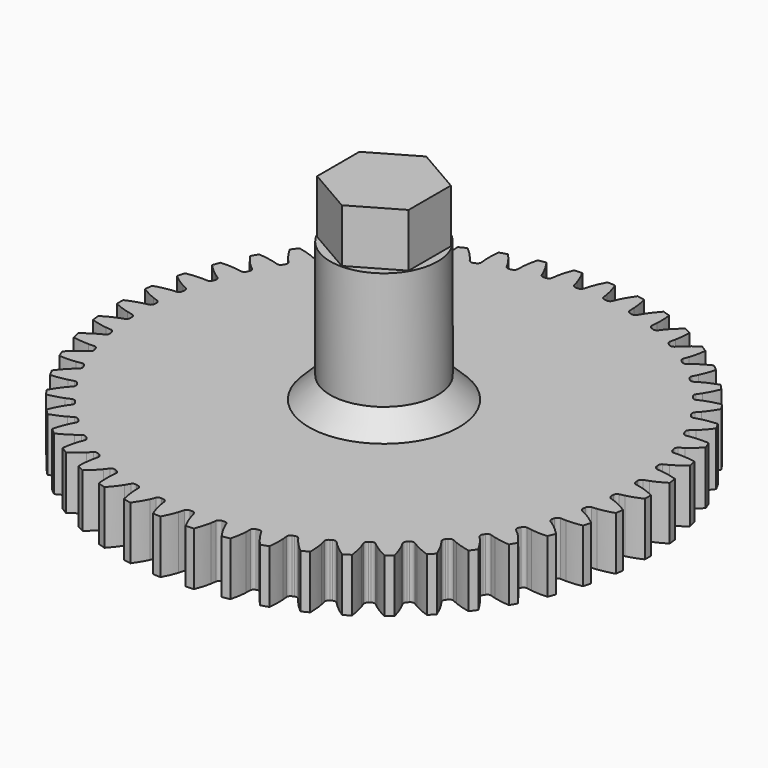
from build123d import *

# Parameters (mm, degrees)
PAD015_DEPTH    = 5
SKETCH020_R     = 5.03
PAD016_DEPTH    = 18
POCKET003_DEPTH = 5
PAD017_DEPTH    = 5


with BuildPart() as part:
    # InvoluteGear005 → Pad015 (new body)
    with BuildSketch(Plane.XY):
        with BuildLine():
            add(Edge.make_bspline(
                [(22.778576, -0.988157), (22.915604, -0.965663), (23.080812, -0.932266), (23.272819, -0.882832)],
                knots=[0, 0, 0, 0, 1, 1, 1, 1], degree=3))
            add(Edge.make_bspline(
                [(23.272819, -0.882832), (23.651159, -0.785377), (24.131276, -0.626388), (24.697565, -0.368193)],
                knots=[0, 0, 0, 0, 1, 1, 1, 1], degree=3))
            ThreePointArc((24.697565, -0.368193), (24.70031, 0), (24.697565, 0.368193))
            add(Edge.make_bspline(
                [(24.697565, 0.368193), (24.131276, 0.626388), (23.651159, 0.785377), (23.272819, 0.882832)],
                knots=[0, 0, 0, 0, 1, 1, 1, 1], degree=3))
            add(Edge.make_bspline(
                [(23.272819, 0.882832), (23.080812, 0.932266), (22.915604, 0.965663), (22.778598, 0.988152)],
                knots=[0, 0, 0, 0, 1, 1, 1, 1], degree=3))
            ThreePointArc((22.778598, 0.988152), (22.594733, 1.115883), (22.523379, 1.328087))
            ThreePointArc((22.523379, 1.328087), (22.517978, 1.416711), (22.512229, 1.505314))
            ThreePointArc((22.512229, 1.505314), (22.556418, 1.724778), (22.72281, 1.874547))
            add(Edge.make_bspline(
                [(22.72281, 1.874547), (22.855937, 1.914039), (23.015657, 1.967878), (23.199954, 2.040987)],
                knots=[0, 0, 0, 0, 1, 1, 1, 1], degree=3))
            add(Edge.make_bspline(
                [(23.199954, 2.040987), (23.563097, 2.185092), (24.019501, 2.403002), (24.548965, 2.730136)],
                knots=[0, 0, 0, 0, 1, 1, 1, 1], degree=3))
            ThreePointArc((24.548965, 2.730136), (24.50554, 3.09577), (24.456671, 3.460716))
            add(Edge.make_bspline(
                [(24.456671, 3.460716), (23.862486, 3.6459), (23.366229, 3.74346), (22.978658, 3.792729)],
                knots=[0, 0, 0, 0, 1, 1, 1, 1], degree=3))
            add(Edge.make_bspline(
                [(22.978658, 3.792729), (22.781969, 3.817708), (22.613878, 3.830135), (22.475134, 3.835276)],
                knots=[0, 0, 0, 0, 1, 1, 1, 1], degree=3))
            ThreePointArc((22.475134, 3.835276), (22.276709, 3.938955), (22.179322, 4.140542))
            ThreePointArc((22.179322, 4.140542), (22.162856, 4.227791), (22.146047, 4.314974))
            ThreePointArc((22.146047, 4.314974), (22.162382, 4.538246), (22.30869, 4.707689))
            add(Edge.make_bspline(
                [(22.30869, 4.707689), (22.435819, 4.763555), (22.587531, 4.836987), (22.761212, 4.932618)],
                knots=[0, 0, 0, 0, 1, 1, 1, 1], degree=3))
            add(Edge.make_bspline(
                [(22.761212, 4.932618), (23.10343, 5.121101), (23.528924, 5.394495), (24.013212, 5.785409)],
                knots=[0, 0, 0, 0, 1, 1, 1, 1], degree=3))
            ThreePointArc((24.013212, 5.785409), (23.924304, 6.142717), (23.83008, 6.49866))
            add(Edge.make_bspline(
                [(23.83008, 6.49866), (23.217371, 6.607913), (22.7128, 6.642507), (22.322109, 6.642811)],
                knots=[0, 0, 0, 0, 1, 1, 1, 1], degree=3))
            add(Edge.make_bspline(
                [(22.322109, 6.642811), (22.123841, 6.642942), (21.955518, 6.634203), (21.817223, 6.621915)],
                knots=[0, 0, 0, 0, 1, 1, 1, 1], degree=3))
            ThreePointArc((21.817223, 6.621915), (21.607369, 6.699907), (21.485484, 6.887699))
            ThreePointArc((21.485484, 6.887699), (21.458213, 6.972196), (21.430609, 7.056585))
            ThreePointArc((21.430609, 7.056585), (21.418832, 7.280144), (21.54275, 7.466588))
            add(Edge.make_bspline(
                [(21.54275, 7.466588), (21.661874, 7.537946), (21.803186, 7.629814), (21.963512, 7.746459)],
                knots=[0, 0, 0, 0, 1, 1, 1, 1], degree=3))
            add(Edge.make_bspline(
                [(21.963512, 7.746459), (22.279409, 7.976347), (22.667282, 8.300914), (23.098756, 8.749443)],
                knots=[0, 0, 0, 0, 1, 1, 1, 1], degree=3))
            ThreePointArc((23.098756, 8.749443), (22.965767, 9.09279), (22.827675, 9.434117))
            add(Edge.make_bspline(
                [(22.827675, 9.434117), (22.206104, 9.465716), (21.701175, 9.436798), (21.313528, 9.388133)],
                knots=[0, 0, 0, 0, 1, 1, 1, 1], degree=3))
            add(Edge.make_bspline(
                [(21.313528, 9.388133), (21.116806, 9.363413), (20.950906, 9.333647), (20.815242, 9.304122)],
                knots=[0, 0, 0, 0, 1, 1, 1, 1], degree=3))
            ThreePointArc((20.815242, 9.304122), (20.597267, 9.355198), (20.452807, 9.526232))
            ThreePointArc((20.452807, 9.526232), (20.41516, 9.606645), (20.377198, 9.686909))
            ThreePointArc((20.377198, 9.686909), (20.337494, 9.907229), (20.437067, 10.107734))
            add(Edge.make_bspline(
                [(20.437067, 10.107734), (20.546308, 10.19346), (20.674992, 10.302315), (20.819434, 10.438134)],
                knots=[0, 0, 0, 0, 1, 1, 1, 1], degree=3))
            add(Edge.make_bspline(
                [(20.819434, 10.438134), (21.104027, 10.705802), (21.448163, 11.076423), (21.82002, 11.575493)],
                knots=[0, 0, 0, 0, 1, 1, 1, 1], degree=3))
            ThreePointArc((21.82002, 11.575493), (21.645046, 11.899465), (21.465263, 12.220793))
            add(Edge.make_bspline(
                [(21.465263, 12.220793), (20.844634, 12.174239), (20.347311, 12.082264), (19.968819, 11.985398)],
                knots=[0, 0, 0, 0, 1, 1, 1, 1], degree=3))
            add(Edge.make_bspline(
                [(19.968819, 11.985398), (19.776747, 11.936217), (19.615885, 11.885893), (19.484992, 11.839598)],
                knots=[0, 0, 0, 0, 1, 1, 1, 1], degree=3))
            ThreePointArc((19.484992, 11.839598), (19.262334, 11.862952), (19.097577, 12.014532))
            ThreePointArc((19.097577, 12.014532), (19.050149, 12.089592), (19.002426, 12.164465))
            ThreePointArc((19.002426, 12.164465), (18.935422, 12.378071), (19.00908, 12.589475))
            add(Edge.make_bspline(
                [(19.00908, 12.589475), (19.106715, 12.688217), (19.220741, 12.812342), (19.347022, 12.965193)],
                knots=[0, 0, 0, 0, 1, 1, 1, 1], degree=3))
            add(Edge.make_bspline(
                [(19.347022, 12.965193), (19.595823, 13.266419), (19.890794, 13.67725), (20.197169, 14.21899)],
                knots=[0, 0, 0, 0, 1, 1, 1, 1], degree=3))
            ThreePointArc((20.197169, 14.21899), (19.98297, 14.518478), (19.764332, 14.814739))
            add(Edge.make_bspline(
                [(19.764332, 14.814739), (19.154431, 14.690767), (18.672557, 14.537186), (18.30919, 14.393646)],
                knots=[0, 0, 0, 0, 1, 1, 1, 1], degree=3))
            add(Edge.make_bspline(
                [(18.30919, 14.393646), (18.124797, 14.32078), (17.971511, 14.250691), (17.847452, 14.188356)],
                knots=[0, 0, 0, 0, 1, 1, 1, 1], degree=3))
            ThreePointArc((17.847452, 14.188356), (17.623623, 14.183619), (17.441167, 14.313354))
            ThreePointArc((17.441167, 14.313354), (17.384705, 14.381879), (17.327974, 14.45018))
            ThreePointArc((17.327974, 14.45018), (17.234726, 14.653704), (17.281308, 14.872673))
            add(Edge.make_bspline(
                [(17.281308, 14.872673), (17.365798, 14.982873), (17.463368, 15.12031), (17.569495, 15.287784)],
                knots=[0, 0, 0, 0, 1, 1, 1, 1], degree=3))
            add(Edge.make_bspline(
                [(17.569495, 15.287784), (17.778581, 15.617818), (18.019735, 16.062378), (18.255796, 16.638246)],
                knots=[0, 0, 0, 0, 1, 1, 1, 1], degree=3))
            ThreePointArc((18.255796, 16.638246), (18.005751, 16.908526), (17.751705, 17.175048))
            add(Edge.make_bspline(
                [(17.751705, 17.175048), (17.162151, 16.975612), (16.703326, 16.762848), (16.360815, 16.574898)],
                knots=[0, 0, 0, 0, 1, 1, 1, 1], degree=3))
            add(Edge.make_bspline(
                [(16.360815, 16.574898), (16.187008, 16.479496), (16.043715, 16.390748), (15.928447, 16.313355)],
                knots=[0, 0, 0, 0, 1, 1, 1, 1], degree=3))
            ThreePointArc((15.928447, 16.313355), (15.706977, 16.280603), (15.509699, 16.386447))
            ThreePointArc((15.509699, 16.386447), (15.445094, 16.447355), (15.38025, 16.508007))
            ThreePointArc((15.38025, 16.508007), (15.262229, 16.698239), (15.280999, 16.92132))
            add(Edge.make_bspline(
                [(15.280999, 16.92132), (15.351011, 17.04124), (15.430587, 17.189822), (15.514887, 17.369277)],
                knots=[0, 0, 0, 0, 1, 1, 1, 1], degree=3))
            add(Edge.make_bspline(
                [(15.514887, 17.369277), (15.68096, 17.722913), (15.864495, 18.194193), (16.026518, 18.795106)],
                knots=[0, 0, 0, 0, 1, 1, 1, 1], degree=3))
            ThreePointArc((16.026518, 18.795106), (15.74457, 19.031916), (15.459123, 19.264496))
            add(Edge.make_bspline(
                [(15.459123, 19.264496), (14.899214, 18.992743), (14.470673, 18.72415), (14.154419, 18.494754)],
                knots=[0, 0, 0, 0, 1, 1, 1, 1], degree=3))
            add(Edge.make_bspline(
                [(14.154419, 18.494754), (13.99394, 18.37832), (13.8629, 18.272313), (13.75824, 18.181083)],
                knots=[0, 0, 0, 0, 1, 1, 1, 1], degree=3))
            ThreePointArc((13.75824, 18.181083), (13.542622, 18.120832), (13.333634, 18.201116))
            ThreePointArc((13.333634, 18.201116), (13.261905, 18.253446), (13.18997, 18.305493))
            ThreePointArc((13.18997, 18.305493), (13.049038, 18.479433), (13.0397, 18.703107))
            add(Edge.make_bspline(
                [(13.0397, 18.703107), (13.09413, 18.830856), (13.154456, 18.988241), (13.2156, 19.176846)],
                knots=[0, 0, 0, 0, 1, 1, 1, 1], degree=3))
            add(Edge.make_bspline(
                [(13.2156, 19.176846), (13.336041, 19.548508), (13.459061, 20.039075), (13.544493, 20.655556)],
                knots=[0, 0, 0, 0, 1, 1, 1, 1], degree=3))
            ThreePointArc((13.544493, 20.655556), (13.235088, 20.855161), (12.922742, 21.050132))
            add(Edge.make_bspline(
                [(12.922742, 21.050132), (12.401307, 20.710346), (12.009809, 20.39016), (11.7248, 20.122936)],
                knots=[0, 0, 0, 0, 1, 1, 1, 1], degree=3))
            add(Edge.make_bspline(
                [(11.7248, 20.122936), (11.580179, 19.987307), (11.463459, 19.865712), (11.371059, 19.762085)],
                knots=[0, 0, 0, 0, 1, 1, 1, 1], degree=3))
            ThreePointArc((11.371059, 19.762085), (11.164692, 19.675284), (10.947289, 19.728742))
            ThreePointArc((10.947289, 19.728742), (10.869567, 19.771669), (10.791677, 19.814291))
            ThreePointArc((10.791677, 19.814291), (10.630055, 19.969196), (10.592758, 20.189935))
            add(Edge.make_bspline(
                [(10.592758, 20.189935), (10.630747, 20.323499), (10.670871, 20.487203), (10.707895, 20.681984)],
                knots=[0, 0, 0, 0, 1, 1, 1, 1], degree=3))
            add(Edge.make_bspline(
                [(10.707895, 20.681984), (10.780804, 21.065812), (10.841371, 21.567928), (10.848863, 22.190256)],
                knots=[0, 0, 0, 0, 1, 1, 1, 1], degree=3))
            ThreePointArc((10.848863, 22.190256), (10.51688, 22.349509), (10.182561, 22.503794))
            add(Edge.make_bspline(
                [(10.182561, 22.503794), (9.707825, 22.101334), (9.359544, 21.734606), (9.110274, 21.433768)],
                knots=[0, 0, 0, 0, 1, 1, 1, 1], degree=3))
            add(Edge.make_bspline(
                [(9.110274, 21.433768), (8.983792, 21.281083), (8.883232, 21.145817), (8.804548, 21.031427)],
                knots=[0, 0, 0, 0, 1, 1, 1, 1], degree=3))
            ThreePointArc((8.804548, 21.031427), (8.610688, 20.919446), (8.3883, 20.945234))
            ThreePointArc((8.3883, 20.945234), (8.30581, 20.978082), (8.223192, 21.010605))
            ThreePointArc((8.223192, 21.010605), (8.04343, 21.144032), (7.978761, 21.358356))
            add(Edge.make_bspline(
                [(7.978761, 21.358356), (7.999711, 21.495628), (8.019001, 21.66307), (8.03132, 21.860956)],
                knots=[0, 0, 0, 0, 1, 1, 1, 1], degree=3))
            add(Edge.make_bspline(
                [(8.03132, 21.860956), (8.055548, 22.250895), (8.052705, 22.756643), (7.98214, 23.375003)],
                knots=[0, 0, 0, 0, 1, 1, 1, 1], degree=3))
            ThreePointArc((7.98214, 23.375003), (7.632815, 23.491391), (7.281795, 23.602558))
            add(Edge.make_bspline(
                [(7.281795, 23.602558), (6.861244, 23.143772), (6.561672, 22.736284), (6.352073, 22.406576)],
                knots=[0, 0, 0, 0, 1, 1, 1, 1], degree=3))
            add(Edge.make_bspline(
                [(6.352073, 22.406576), (6.245725, 22.239243), (6.162911, 22.092441), (6.099185, 21.96909)],
                knots=[0, 0, 0, 0, 1, 1, 1, 1], degree=3))
            ThreePointArc((6.099185, 21.96909), (5.920888, 21.833695), (5.697021, 21.831407))
            ThreePointArc((5.697021, 21.831407), (5.611066, 21.853658), (5.525023, 21.875569))
            ThreePointArc((5.525023, 21.875569), (5.329955, 21.985414), (5.238934, 22.189943))
            add(Edge.make_bspline(
                [(5.238934, 22.189943), (5.242514, 22.328758), (5.240666, 22.497298), (5.228086, 22.695167)],
                knots=[0, 0, 0, 0, 1, 1, 1, 1], degree=3))
            add(Edge.make_bspline(
                [(5.228086, 22.695167), (5.203251, 23.085067), (5.137043, 23.586471), (4.989534, 24.191111)],
                knots=[0, 0, 0, 0, 1, 1, 1, 1], degree=3))
            ThreePointArc((4.989534, 24.191111), (4.628377, 24.262799), (4.266191, 24.329096))
            add(Edge.make_bspline(
                [(4.266191, 24.329096), (3.906457, 23.821218), (3.66032, 23.379397), (3.493696, 23.02602)],
                knots=[0, 0, 0, 0, 1, 1, 1, 1], degree=3))
            add(Edge.make_bspline(
                [(3.493696, 23.02602), (3.40916, 22.846677), (3.345398, 22.690653), (3.297634, 22.560288)],
                knots=[0, 0, 0, 0, 1, 1, 1, 1], degree=3))
            ThreePointArc((3.297634, 22.560288), (3.137713, 22.403614), (2.915898, 22.373286))
            ThreePointArc((2.915898, 22.373286), (2.827831, 22.384588), (2.73972, 22.395543))
            ThreePointArc((2.73972, 22.395543), (2.532424, 22.480073), (2.416486, 22.671581))
            add(Edge.make_bspline(
                [(2.416486, 22.671581), (2.40264, 22.809751), (2.379683, 22.97673), (2.342403, 23.171462)],
                knots=[0, 0, 0, 0, 1, 1, 1, 1], degree=3))
            add(Edge.make_bspline(
                [(2.342403, 23.171462), (2.268896, 23.555175), (2.140367, 24.044327), (1.91824, 24.625711)],
                knots=[0, 0, 0, 0, 1, 1, 1, 1], degree=3))
            ThreePointArc((1.91824, 24.625711), (1.550945, 24.651569), (1.183306, 24.671949))
            add(Edge.make_bspline(
                [(1.183306, 24.671949), (0.890063, 24.12299), (0.701241, 23.653804), (0.580222, 23.282329)],
                knots=[0, 0, 0, 0, 1, 1, 1, 1], degree=3))
            add(Edge.make_bspline(
                [(0.580222, 23.282329), (0.51883, 23.093805), (0.475126, 22.93102), (0.444078, 22.795696)],
                knots=[0, 0, 0, 0, 1, 1, 1, 1], degree=3))
            ThreePointArc((0.444078, 22.795696), (0.305054, 22.620214), (0.088789, 22.562325))
            ThreePointArc((0.088789, 22.562325), (0, 22.5625), (-0.088789, 22.562325))
            ThreePointArc((-0.088789, 22.562325), (-0.305045, 22.620208), (-0.444071, 22.795675))
            add(Edge.make_bspline(
                [(-0.444071, 22.795675), (-0.475126, 22.93102), (-0.51883, 23.093805), (-0.580222, 23.282329)],
                knots=[0, 0, 0, 0, 1, 1, 1, 1], degree=3))
            add(Edge.make_bspline(
                [(-0.580222, 23.282329), (-0.701241, 23.653804), (-0.890063, 24.12299), (-1.183306, 24.671949)],
                knots=[0, 0, 0, 0, 1, 1, 1, 1], degree=3))
            ThreePointArc((-1.183306, 24.671949), (-1.550945, 24.651569), (-1.91824, 24.625711))
            add(Edge.make_bspline(
                [(-1.91824, 24.625711), (-2.140367, 24.044327), (-2.268896, 23.555175), (-2.342403, 23.171462)],
                knots=[0, 0, 0, 0, 1, 1, 1, 1], degree=3))
            add(Edge.make_bspline(
                [(-2.342403, 23.171462), (-2.379683, 22.97673), (-2.40264, 22.809751), (-2.416482, 22.671603)],
                knots=[0, 0, 0, 0, 1, 1, 1, 1], degree=3))
            ThreePointArc((-2.416482, 22.671603), (-2.532416, 22.48008), (-2.73972, 22.395543))
            ThreePointArc((-2.73972, 22.395543), (-2.827831, 22.384588), (-2.915898, 22.373286))
            ThreePointArc((-2.915898, 22.373286), (-3.137703, 22.403608), (-3.297625, 22.560267))
            add(Edge.make_bspline(
                [(-3.297625, 22.560267), (-3.345398, 22.690653), (-3.40916, 22.846677), (-3.493696, 23.02602)],
                knots=[0, 0, 0, 0, 1, 1, 1, 1], degree=3))
            add(Edge.make_bspline(
                [(-3.493696, 23.02602), (-3.66032, 23.379397), (-3.906457, 23.821218), (-4.266191, 24.329096)],
                knots=[0, 0, 0, 0, 1, 1, 1, 1], degree=3))
            ThreePointArc((-4.266191, 24.329096), (-4.628377, 24.262799), (-4.989534, 24.191111))
            add(Edge.make_bspline(
                [(-4.989534, 24.191111), (-5.137043, 23.586471), (-5.203251, 23.085067), (-5.228086, 22.695167)],
                knots=[0, 0, 0, 0, 1, 1, 1, 1], degree=3))
            add(Edge.make_bspline(
                [(-5.228086, 22.695167), (-5.240666, 22.497298), (-5.242514, 22.328758), (-5.238933, 22.189965)],
                knots=[0, 0, 0, 0, 1, 1, 1, 1], degree=3))
            ThreePointArc((-5.238933, 22.189965), (-5.329949, 21.985422), (-5.525023, 21.875569))
            ThreePointArc((-5.525023, 21.875569), (-5.611066, 21.853658), (-5.697021, 21.831407))
            ThreePointArc((-5.697021, 21.831407), (-5.920878, 21.833691), (-6.099174, 21.969071))
            add(Edge.make_bspline(
                [(-6.099174, 21.969071), (-6.162911, 22.092441), (-6.245725, 22.239243), (-6.352073, 22.406576)],
                knots=[0, 0, 0, 0, 1, 1, 1, 1], degree=3))
            add(Edge.make_bspline(
                [(-6.352073, 22.406576), (-6.561672, 22.736284), (-6.861244, 23.143772), (-7.281795, 23.602558)],
                knots=[0, 0, 0, 0, 1, 1, 1, 1], degree=3))
            ThreePointArc((-7.281795, 23.602558), (-7.632815, 23.491391), (-7.98214, 23.375003))
            add(Edge.make_bspline(
                [(-7.98214, 23.375003), (-8.052705, 22.756643), (-8.055548, 22.250895), (-8.03132, 21.860956)],
                knots=[0, 0, 0, 0, 1, 1, 1, 1], degree=3))
            add(Edge.make_bspline(
                [(-8.03132, 21.860956), (-8.019001, 21.66307), (-7.999711, 21.495628), (-7.978763, 21.358378)],
                knots=[0, 0, 0, 0, 1, 1, 1, 1], degree=3))
            ThreePointArc((-7.978763, 21.358378), (-8.043424, 21.144041), (-8.223192, 21.010605))
            ThreePointArc((-8.223192, 21.010605), (-8.30581, 20.978082), (-8.3883, 20.945234))
            ThreePointArc((-8.3883, 20.945234), (-8.610677, 20.919443), (-8.804535, 21.031409))
            add(Edge.make_bspline(
                [(-8.804535, 21.031409), (-8.883232, 21.145817), (-8.983792, 21.281083), (-9.110274, 21.433768)],
                knots=[0, 0, 0, 0, 1, 1, 1, 1], degree=3))
            add(Edge.make_bspline(
                [(-9.110274, 21.433768), (-9.359544, 21.734606), (-9.707825, 22.101334), (-10.182561, 22.503794)],
                knots=[0, 0, 0, 0, 1, 1, 1, 1], degree=3))
            ThreePointArc((-10.182561, 22.503794), (-10.51688, 22.349509), (-10.848863, 22.190256))
            add(Edge.make_bspline(
                [(-10.848863, 22.190256), (-10.841371, 21.567928), (-10.780804, 21.065812), (-10.707895, 20.681984)],
                knots=[0, 0, 0, 0, 1, 1, 1, 1], degree=3))
            add(Edge.make_bspline(
                [(-10.707895, 20.681984), (-10.670871, 20.487203), (-10.630747, 20.323499), (-10.592762, 20.189957)],
                knots=[0, 0, 0, 0, 1, 1, 1, 1], degree=3))
            ThreePointArc((-10.592762, 20.189957), (-10.630051, 19.969206), (-10.791677, 19.814291))
            ThreePointArc((-10.791677, 19.814291), (-10.869567, 19.771669), (-10.947289, 19.728742))
            ThreePointArc((-10.947289, 19.728742), (-11.164681, 19.675282), (-11.371043, 19.762069))
            add(Edge.make_bspline(
                [(-11.371043, 19.762069), (-11.463459, 19.865712), (-11.580179, 19.987307), (-11.7248, 20.122936)],
                knots=[0, 0, 0, 0, 1, 1, 1, 1], degree=3))
            add(Edge.make_bspline(
                [(-11.7248, 20.122936), (-12.009809, 20.39016), (-12.401307, 20.710346), (-12.922742, 21.050132)],
                knots=[0, 0, 0, 0, 1, 1, 1, 1], degree=3))
            ThreePointArc((-12.922742, 21.050132), (-13.235088, 20.855161), (-13.544493, 20.655556))
            add(Edge.make_bspline(
                [(-13.544493, 20.655556), (-13.459061, 20.039075), (-13.336041, 19.548508), (-13.2156, 19.176846)],
                knots=[0, 0, 0, 0, 1, 1, 1, 1], degree=3))
            add(Edge.make_bspline(
                [(-13.2156, 19.176846), (-13.154456, 18.988241), (-13.09413, 18.830856), (-13.039708, 18.703128)],
                knots=[0, 0, 0, 0, 1, 1, 1, 1], degree=3))
            ThreePointArc((-13.039708, 18.703128), (-13.049035, 18.479444), (-13.18997, 18.305493))
            ThreePointArc((-13.18997, 18.305493), (-13.261905, 18.253446), (-13.333634, 18.201116))
            ThreePointArc((-13.333634, 18.201116), (-13.542611, 18.120831), (-13.758223, 18.18107))
            add(Edge.make_bspline(
                [(-13.758223, 18.18107), (-13.8629, 18.272313), (-13.99394, 18.37832), (-14.154419, 18.494754)],
                knots=[0, 0, 0, 0, 1, 1, 1, 1], degree=3))
            add(Edge.make_bspline(
                [(-14.154419, 18.494754), (-14.470673, 18.72415), (-14.899214, 18.992743), (-15.459123, 19.264496)],
                knots=[0, 0, 0, 0, 1, 1, 1, 1], degree=3))
            ThreePointArc((-15.459123, 19.264496), (-15.74457, 19.031916), (-16.026518, 18.795106))
            add(Edge.make_bspline(
                [(-16.026518, 18.795106), (-15.864495, 18.194193), (-15.68096, 17.722913), (-15.514887, 17.369277)],
                knots=[0, 0, 0, 0, 1, 1, 1, 1], degree=3))
            add(Edge.make_bspline(
                [(-15.514887, 17.369277), (-15.430587, 17.189822), (-15.351011, 17.04124), (-15.281009, 16.92134)],
                knots=[0, 0, 0, 0, 1, 1, 1, 1], degree=3))
            ThreePointArc((-15.281009, 16.92134), (-15.262228, 16.69825), (-15.38025, 16.508007))
            ThreePointArc((-15.38025, 16.508007), (-15.445094, 16.447355), (-15.509699, 16.386447))
            ThreePointArc((-15.509699, 16.386447), (-15.706966, 16.280604), (-15.928427, 16.313344))
            add(Edge.make_bspline(
                [(-15.928427, 16.313344), (-16.043715, 16.390748), (-16.187008, 16.479496), (-16.360815, 16.574898)],
                knots=[0, 0, 0, 0, 1, 1, 1, 1], degree=3))
            add(Edge.make_bspline(
                [(-16.360815, 16.574898), (-16.703326, 16.762848), (-17.162151, 16.975612), (-17.751705, 17.175048)],
                knots=[0, 0, 0, 0, 1, 1, 1, 1], degree=3))
            ThreePointArc((-17.751705, 17.175048), (-18.005751, 16.908526), (-18.255796, 16.638246))
            add(Edge.make_bspline(
                [(-18.255796, 16.638246), (-18.019735, 16.062378), (-17.778581, 15.617818), (-17.569495, 15.287784)],
                knots=[0, 0, 0, 0, 1, 1, 1, 1], degree=3))
            add(Edge.make_bspline(
                [(-17.569495, 15.287784), (-17.463368, 15.12031), (-17.365798, 14.982873), (-17.28132, 14.872691)],
                knots=[0, 0, 0, 0, 1, 1, 1, 1], degree=3))
            ThreePointArc((-17.28132, 14.872691), (-17.234726, 14.653715), (-17.327974, 14.45018))
            ThreePointArc((-17.327974, 14.45018), (-17.384705, 14.381879), (-17.441167, 14.313354))
            ThreePointArc((-17.441167, 14.313354), (-17.623613, 14.183622), (-17.847431, 14.188347))
            add(Edge.make_bspline(
                [(-17.847431, 14.188347), (-17.971511, 14.250691), (-18.124797, 14.32078), (-18.30919, 14.393646)],
                knots=[0, 0, 0, 0, 1, 1, 1, 1], degree=3))
            add(Edge.make_bspline(
                [(-18.30919, 14.393646), (-18.672557, 14.537186), (-19.154431, 14.690767), (-19.764332, 14.814739)],
                knots=[0, 0, 0, 0, 1, 1, 1, 1], degree=3))
            ThreePointArc((-19.764332, 14.814739), (-19.98297, 14.518478), (-20.197169, 14.21899))
            add(Edge.make_bspline(
                [(-20.197169, 14.21899), (-19.890794, 13.67725), (-19.595823, 13.266419), (-19.347022, 12.965193)],
                knots=[0, 0, 0, 0, 1, 1, 1, 1], degree=3))
            add(Edge.make_bspline(
                [(-19.347022, 12.965193), (-19.220741, 12.812342), (-19.106715, 12.688217), (-19.009094, 12.589492)],
                knots=[0, 0, 0, 0, 1, 1, 1, 1], degree=3))
            ThreePointArc((-19.009094, 12.589492), (-18.935423, 12.378082), (-19.002426, 12.164465))
            ThreePointArc((-19.002426, 12.164465), (-19.050149, 12.089592), (-19.097577, 12.014532))
            ThreePointArc((-19.097577, 12.014532), (-19.262324, 11.862955), (-19.48497, 11.839592))
            add(Edge.make_bspline(
                [(-19.48497, 11.839592), (-19.615885, 11.885893), (-19.776747, 11.936217), (-19.968819, 11.985398)],
                knots=[0, 0, 0, 0, 1, 1, 1, 1], degree=3))
            add(Edge.make_bspline(
                [(-19.968819, 11.985398), (-20.347311, 12.082264), (-20.844634, 12.174239), (-21.465263, 12.220793)],
                knots=[0, 0, 0, 0, 1, 1, 1, 1], degree=3))
            ThreePointArc((-21.465263, 12.220793), (-21.645046, 11.899465), (-21.82002, 11.575493))
            add(Edge.make_bspline(
                [(-21.82002, 11.575493), (-21.448163, 11.076423), (-21.104027, 10.705802), (-20.819434, 10.438134)],
                knots=[0, 0, 0, 0, 1, 1, 1, 1], degree=3))
            add(Edge.make_bspline(
                [(-20.819434, 10.438134), (-20.674992, 10.302315), (-20.546308, 10.19346), (-20.437084, 10.107749)],
                knots=[0, 0, 0, 0, 1, 1, 1, 1], degree=3))
            ThreePointArc((-20.437084, 10.107749), (-20.337496, 9.90724), (-20.377198, 9.686909))
            ThreePointArc((-20.377198, 9.686909), (-20.41516, 9.606645), (-20.452807, 9.526232))
            ThreePointArc((-20.452807, 9.526232), (-20.597258, 9.355203), (-20.81522, 9.304119))
            add(Edge.make_bspline(
                [(-20.81522, 9.304119), (-20.950906, 9.333647), (-21.116806, 9.363413), (-21.313528, 9.388133)],
                knots=[0, 0, 0, 0, 1, 1, 1, 1], degree=3))
            add(Edge.make_bspline(
                [(-21.313528, 9.388133), (-21.701175, 9.436798), (-22.206104, 9.465716), (-22.827675, 9.434117)],
                knots=[0, 0, 0, 0, 1, 1, 1, 1], degree=3))
            ThreePointArc((-22.827675, 9.434117), (-22.965767, 9.09279), (-23.098756, 8.749443))
            add(Edge.make_bspline(
                [(-23.098756, 8.749443), (-22.667282, 8.300914), (-22.279409, 7.976347), (-21.963512, 7.746459)],
                knots=[0, 0, 0, 0, 1, 1, 1, 1], degree=3))
            add(Edge.make_bspline(
                [(-21.963512, 7.746459), (-21.803186, 7.629814), (-21.661874, 7.537946), (-21.542768, 7.466601)],
                knots=[0, 0, 0, 0, 1, 1, 1, 1], degree=3))
            ThreePointArc((-21.542768, 7.466601), (-21.418835, 7.280154), (-21.430609, 7.056585))
            ThreePointArc((-21.430609, 7.056585), (-21.458213, 6.972196), (-21.485484, 6.887699))
            ThreePointArc((-21.485484, 6.887699), (-21.60736, 6.699913), (-21.817201, 6.621914))
            add(Edge.make_bspline(
                [(-21.817201, 6.621914), (-21.955518, 6.634203), (-22.123841, 6.642942), (-22.322109, 6.642811)],
                knots=[0, 0, 0, 0, 1, 1, 1, 1], degree=3))
            add(Edge.make_bspline(
                [(-22.322109, 6.642811), (-22.7128, 6.642507), (-23.217371, 6.607913), (-23.83008, 6.49866)],
                knots=[0, 0, 0, 0, 1, 1, 1, 1], degree=3))
            ThreePointArc((-23.83008, 6.49866), (-23.924304, 6.142717), (-24.013212, 5.785409))
            add(Edge.make_bspline(
                [(-24.013212, 5.785409), (-23.528924, 5.394495), (-23.10343, 5.121101), (-22.761212, 4.932618)],
                knots=[0, 0, 0, 0, 1, 1, 1, 1], degree=3))
            add(Edge.make_bspline(
                [(-22.761212, 4.932618), (-22.587531, 4.836987), (-22.435819, 4.763555), (-22.30871, 4.707699)],
                knots=[0, 0, 0, 0, 1, 1, 1, 1], degree=3))
            ThreePointArc((-22.30871, 4.707699), (-22.162387, 4.538256), (-22.146047, 4.314974))
            ThreePointArc((-22.146047, 4.314974), (-22.162856, 4.227791), (-22.179322, 4.140542))
            ThreePointArc((-22.179322, 4.140542), (-22.276701, 3.938962), (-22.475112, 3.835278))
            add(Edge.make_bspline(
                [(-22.475112, 3.835278), (-22.613878, 3.830135), (-22.781969, 3.817708), (-22.978658, 3.792729)],
                knots=[0, 0, 0, 0, 1, 1, 1, 1], degree=3))
            add(Edge.make_bspline(
                [(-22.978658, 3.792729), (-23.366229, 3.74346), (-23.862486, 3.6459), (-24.456671, 3.460716)],
                knots=[0, 0, 0, 0, 1, 1, 1, 1], degree=3))
            ThreePointArc((-24.456671, 3.460716), (-24.50554, 3.09577), (-24.548965, 2.730136))
            add(Edge.make_bspline(
                [(-24.548965, 2.730136), (-24.019501, 2.403002), (-23.563097, 2.185092), (-23.199954, 2.040987)],
                knots=[0, 0, 0, 0, 1, 1, 1, 1], degree=3))
            add(Edge.make_bspline(
                [(-23.199954, 2.040987), (-23.015657, 1.967878), (-22.855937, 1.914039), (-22.72283, 1.874555)],
                knots=[0, 0, 0, 0, 1, 1, 1, 1], degree=3))
            ThreePointArc((-22.72283, 1.874555), (-22.556424, 1.724787), (-22.512229, 1.505314))
            ThreePointArc((-22.512229, 1.505314), (-22.517978, 1.416711), (-22.523379, 1.328087))
            ThreePointArc((-22.523379, 1.328087), (-22.594726, 1.115891), (-22.778576, 0.988157))
            add(Edge.make_bspline(
                [(-22.778576, 0.988157), (-22.915604, 0.965663), (-23.080812, 0.932266), (-23.272819, 0.882832)],
                knots=[0, 0, 0, 0, 1, 1, 1, 1], degree=3))
            add(Edge.make_bspline(
                [(-23.272819, 0.882832), (-23.651159, 0.785377), (-24.131276, 0.626388), (-24.697565, 0.368193)],
                knots=[0, 0, 0, 0, 1, 1, 1, 1], degree=3))
            ThreePointArc((-24.697565, 0.368193), (-24.70031, 0), (-24.697565, -0.368193))
            add(Edge.make_bspline(
                [(-24.697565, -0.368193), (-24.131276, -0.626388), (-23.651159, -0.785377), (-23.272819, -0.882832)],
                knots=[0, 0, 0, 0, 1, 1, 1, 1], degree=3))
            add(Edge.make_bspline(
                [(-23.272819, -0.882832), (-23.080812, -0.932266), (-22.915604, -0.965663), (-22.778598, -0.988152)],
                knots=[0, 0, 0, 0, 1, 1, 1, 1], degree=3))
            ThreePointArc((-22.778598, -0.988152), (-22.594733, -1.115883), (-22.523379, -1.328087))
            ThreePointArc((-22.523379, -1.328087), (-22.517978, -1.416711), (-22.512229, -1.505314))
            ThreePointArc((-22.512229, -1.505314), (-22.556418, -1.724778), (-22.72281, -1.874547))
            add(Edge.make_bspline(
                [(-22.72281, -1.874547), (-22.855937, -1.914039), (-23.015657, -1.967878), (-23.199954, -2.040987)],
                knots=[0, 0, 0, 0, 1, 1, 1, 1], degree=3))
            add(Edge.make_bspline(
                [(-23.199954, -2.040987), (-23.563097, -2.185092), (-24.019501, -2.403002), (-24.548965, -2.730136)],
                knots=[0, 0, 0, 0, 1, 1, 1, 1], degree=3))
            ThreePointArc((-24.548965, -2.730136), (-24.50554, -3.09577), (-24.456671, -3.460716))
            add(Edge.make_bspline(
                [(-24.456671, -3.460716), (-23.862486, -3.6459), (-23.366229, -3.74346), (-22.978658, -3.792729)],
                knots=[0, 0, 0, 0, 1, 1, 1, 1], degree=3))
            add(Edge.make_bspline(
                [(-22.978658, -3.792729), (-22.781969, -3.817708), (-22.613878, -3.830135), (-22.475134, -3.835276)],
                knots=[0, 0, 0, 0, 1, 1, 1, 1], degree=3))
            ThreePointArc((-22.475134, -3.835276), (-22.276709, -3.938955), (-22.179322, -4.140542))
            ThreePointArc((-22.179322, -4.140542), (-22.162856, -4.227791), (-22.146047, -4.314974))
            ThreePointArc((-22.146047, -4.314974), (-22.162382, -4.538246), (-22.30869, -4.707689))
            add(Edge.make_bspline(
                [(-22.30869, -4.707689), (-22.435819, -4.763555), (-22.587531, -4.836987), (-22.761212, -4.932618)],
                knots=[0, 0, 0, 0, 1, 1, 1, 1], degree=3))
            add(Edge.make_bspline(
                [(-22.761212, -4.932618), (-23.10343, -5.121101), (-23.528924, -5.394495), (-24.013212, -5.785409)],
                knots=[0, 0, 0, 0, 1, 1, 1, 1], degree=3))
            ThreePointArc((-24.013212, -5.785409), (-23.924304, -6.142717), (-23.83008, -6.49866))
            add(Edge.make_bspline(
                [(-23.83008, -6.49866), (-23.217371, -6.607913), (-22.7128, -6.642507), (-22.322109, -6.642811)],
                knots=[0, 0, 0, 0, 1, 1, 1, 1], degree=3))
            add(Edge.make_bspline(
                [(-22.322109, -6.642811), (-22.123841, -6.642942), (-21.955518, -6.634203), (-21.817223, -6.621915)],
                knots=[0, 0, 0, 0, 1, 1, 1, 1], degree=3))
            ThreePointArc((-21.817223, -6.621915), (-21.607369, -6.699907), (-21.485484, -6.887699))
            ThreePointArc((-21.485484, -6.887699), (-21.458213, -6.972196), (-21.430609, -7.056585))
            ThreePointArc((-21.430609, -7.056585), (-21.418832, -7.280144), (-21.54275, -7.466588))
            add(Edge.make_bspline(
                [(-21.54275, -7.466588), (-21.661874, -7.537946), (-21.803186, -7.629814), (-21.963512, -7.746459)],
                knots=[0, 0, 0, 0, 1, 1, 1, 1], degree=3))
            add(Edge.make_bspline(
                [(-21.963512, -7.746459), (-22.279409, -7.976347), (-22.667282, -8.300914), (-23.098756, -8.749443)],
                knots=[0, 0, 0, 0, 1, 1, 1, 1], degree=3))
            ThreePointArc((-23.098756, -8.749443), (-22.965767, -9.09279), (-22.827675, -9.434117))
            add(Edge.make_bspline(
                [(-22.827675, -9.434117), (-22.206104, -9.465716), (-21.701175, -9.436798), (-21.313528, -9.388133)],
                knots=[0, 0, 0, 0, 1, 1, 1, 1], degree=3))
            add(Edge.make_bspline(
                [(-21.313528, -9.388133), (-21.116806, -9.363413), (-20.950906, -9.333647), (-20.815242, -9.304122)],
                knots=[0, 0, 0, 0, 1, 1, 1, 1], degree=3))
            ThreePointArc((-20.815242, -9.304122), (-20.597267, -9.355198), (-20.452807, -9.526232))
            ThreePointArc((-20.452807, -9.526232), (-20.41516, -9.606645), (-20.377198, -9.686909))
            ThreePointArc((-20.377198, -9.686909), (-20.337494, -9.907229), (-20.437067, -10.107734))
            add(Edge.make_bspline(
                [(-20.437067, -10.107734), (-20.546308, -10.19346), (-20.674992, -10.302315), (-20.819434, -10.438134)],
                knots=[0, 0, 0, 0, 1, 1, 1, 1], degree=3))
            add(Edge.make_bspline(
                [(-20.819434, -10.438134), (-21.104027, -10.705802), (-21.448163, -11.076423), (-21.82002, -11.575493)],
                knots=[0, 0, 0, 0, 1, 1, 1, 1], degree=3))
            ThreePointArc((-21.82002, -11.575493), (-21.645046, -11.899465), (-21.465263, -12.220793))
            add(Edge.make_bspline(
                [(-21.465263, -12.220793), (-20.844634, -12.174239), (-20.347311, -12.082264), (-19.968819, -11.985398)],
                knots=[0, 0, 0, 0, 1, 1, 1, 1], degree=3))
            add(Edge.make_bspline(
                [(-19.968819, -11.985398), (-19.776747, -11.936217), (-19.615885, -11.885893), (-19.484992, -11.839598)],
                knots=[0, 0, 0, 0, 1, 1, 1, 1], degree=3))
            ThreePointArc((-19.484992, -11.839598), (-19.262334, -11.862952), (-19.097577, -12.014532))
            ThreePointArc((-19.097577, -12.014532), (-19.050149, -12.089592), (-19.002426, -12.164465))
            ThreePointArc((-19.002426, -12.164465), (-18.935422, -12.378071), (-19.00908, -12.589475))
            add(Edge.make_bspline(
                [(-19.00908, -12.589475), (-19.106715, -12.688217), (-19.220741, -12.812342), (-19.347022, -12.965193)],
                knots=[0, 0, 0, 0, 1, 1, 1, 1], degree=3))
            add(Edge.make_bspline(
                [(-19.347022, -12.965193), (-19.595823, -13.266419), (-19.890794, -13.67725), (-20.197169, -14.21899)],
                knots=[0, 0, 0, 0, 1, 1, 1, 1], degree=3))
            ThreePointArc((-20.197169, -14.21899), (-19.98297, -14.518478), (-19.764332, -14.814739))
            add(Edge.make_bspline(
                [(-19.764332, -14.814739), (-19.154431, -14.690767), (-18.672557, -14.537186), (-18.30919, -14.393646)],
                knots=[0, 0, 0, 0, 1, 1, 1, 1], degree=3))
            add(Edge.make_bspline(
                [(-18.30919, -14.393646), (-18.124797, -14.32078), (-17.971511, -14.250691), (-17.847452, -14.188356)],
                knots=[0, 0, 0, 0, 1, 1, 1, 1], degree=3))
            ThreePointArc((-17.847452, -14.188356), (-17.623623, -14.183619), (-17.441167, -14.313354))
            ThreePointArc((-17.441167, -14.313354), (-17.384705, -14.381879), (-17.327974, -14.45018))
            ThreePointArc((-17.327974, -14.45018), (-17.234726, -14.653704), (-17.281308, -14.872673))
            add(Edge.make_bspline(
                [(-17.281308, -14.872673), (-17.365798, -14.982873), (-17.463368, -15.12031), (-17.569495, -15.287784)],
                knots=[0, 0, 0, 0, 1, 1, 1, 1], degree=3))
            add(Edge.make_bspline(
                [(-17.569495, -15.287784), (-17.778581, -15.617818), (-18.019735, -16.062378), (-18.255796, -16.638246)],
                knots=[0, 0, 0, 0, 1, 1, 1, 1], degree=3))
            ThreePointArc((-18.255796, -16.638246), (-18.005751, -16.908526), (-17.751705, -17.175048))
            add(Edge.make_bspline(
                [(-17.751705, -17.175048), (-17.162151, -16.975612), (-16.703326, -16.762848), (-16.360815, -16.574898)],
                knots=[0, 0, 0, 0, 1, 1, 1, 1], degree=3))
            add(Edge.make_bspline(
                [(-16.360815, -16.574898), (-16.187008, -16.479496), (-16.043715, -16.390748), (-15.928447, -16.313355)],
                knots=[0, 0, 0, 0, 1, 1, 1, 1], degree=3))
            ThreePointArc((-15.928447, -16.313355), (-15.706977, -16.280603), (-15.509699, -16.386447))
            ThreePointArc((-15.509699, -16.386447), (-15.445094, -16.447355), (-15.38025, -16.508007))
            ThreePointArc((-15.38025, -16.508007), (-15.262229, -16.698239), (-15.280999, -16.92132))
            add(Edge.make_bspline(
                [(-15.280999, -16.92132), (-15.351011, -17.04124), (-15.430587, -17.189822), (-15.514887, -17.369277)],
                knots=[0, 0, 0, 0, 1, 1, 1, 1], degree=3))
            add(Edge.make_bspline(
                [(-15.514887, -17.369277), (-15.68096, -17.722913), (-15.864495, -18.194193), (-16.026518, -18.795106)],
                knots=[0, 0, 0, 0, 1, 1, 1, 1], degree=3))
            ThreePointArc((-16.026518, -18.795106), (-15.74457, -19.031916), (-15.459123, -19.264496))
            add(Edge.make_bspline(
                [(-15.459123, -19.264496), (-14.899214, -18.992743), (-14.470673, -18.72415), (-14.154419, -18.494754)],
                knots=[0, 0, 0, 0, 1, 1, 1, 1], degree=3))
            add(Edge.make_bspline(
                [(-14.154419, -18.494754), (-13.99394, -18.37832), (-13.8629, -18.272313), (-13.75824, -18.181083)],
                knots=[0, 0, 0, 0, 1, 1, 1, 1], degree=3))
            ThreePointArc((-13.75824, -18.181083), (-13.542622, -18.120832), (-13.333634, -18.201116))
            ThreePointArc((-13.333634, -18.201116), (-13.261905, -18.253446), (-13.18997, -18.305493))
            ThreePointArc((-13.18997, -18.305493), (-13.049038, -18.479433), (-13.0397, -18.703107))
            add(Edge.make_bspline(
                [(-13.0397, -18.703107), (-13.09413, -18.830856), (-13.154456, -18.988241), (-13.2156, -19.176846)],
                knots=[0, 0, 0, 0, 1, 1, 1, 1], degree=3))
            add(Edge.make_bspline(
                [(-13.2156, -19.176846), (-13.336041, -19.548508), (-13.459061, -20.039075), (-13.544493, -20.655556)],
                knots=[0, 0, 0, 0, 1, 1, 1, 1], degree=3))
            ThreePointArc((-13.544493, -20.655556), (-13.235088, -20.855161), (-12.922742, -21.050132))
            add(Edge.make_bspline(
                [(-12.922742, -21.050132), (-12.401307, -20.710346), (-12.009809, -20.39016), (-11.7248, -20.122936)],
                knots=[0, 0, 0, 0, 1, 1, 1, 1], degree=3))
            add(Edge.make_bspline(
                [(-11.7248, -20.122936), (-11.580179, -19.987307), (-11.463459, -19.865712), (-11.371059, -19.762085)],
                knots=[0, 0, 0, 0, 1, 1, 1, 1], degree=3))
            ThreePointArc((-11.371059, -19.762085), (-11.164692, -19.675284), (-10.947289, -19.728742))
            ThreePointArc((-10.947289, -19.728742), (-10.869567, -19.771669), (-10.791677, -19.814291))
            ThreePointArc((-10.791677, -19.814291), (-10.630055, -19.969196), (-10.592758, -20.189935))
            add(Edge.make_bspline(
                [(-10.592758, -20.189935), (-10.630747, -20.323499), (-10.670871, -20.487203), (-10.707895, -20.681984)],
                knots=[0, 0, 0, 0, 1, 1, 1, 1], degree=3))
            add(Edge.make_bspline(
                [(-10.707895, -20.681984), (-10.780804, -21.065812), (-10.841371, -21.567928), (-10.848863, -22.190256)],
                knots=[0, 0, 0, 0, 1, 1, 1, 1], degree=3))
            ThreePointArc((-10.848863, -22.190256), (-10.51688, -22.349509), (-10.182561, -22.503794))
            add(Edge.make_bspline(
                [(-10.182561, -22.503794), (-9.707825, -22.101334), (-9.359544, -21.734606), (-9.110274, -21.433768)],
                knots=[0, 0, 0, 0, 1, 1, 1, 1], degree=3))
            add(Edge.make_bspline(
                [(-9.110274, -21.433768), (-8.983792, -21.281083), (-8.883232, -21.145817), (-8.804548, -21.031427)],
                knots=[0, 0, 0, 0, 1, 1, 1, 1], degree=3))
            ThreePointArc((-8.804548, -21.031427), (-8.610688, -20.919446), (-8.3883, -20.945234))
            ThreePointArc((-8.3883, -20.945234), (-8.30581, -20.978082), (-8.223192, -21.010605))
            ThreePointArc((-8.223192, -21.010605), (-8.04343, -21.144032), (-7.978761, -21.358356))
            add(Edge.make_bspline(
                [(-7.978761, -21.358356), (-7.999711, -21.495628), (-8.019001, -21.66307), (-8.03132, -21.860956)],
                knots=[0, 0, 0, 0, 1, 1, 1, 1], degree=3))
            add(Edge.make_bspline(
                [(-8.03132, -21.860956), (-8.055548, -22.250895), (-8.052705, -22.756643), (-7.98214, -23.375003)],
                knots=[0, 0, 0, 0, 1, 1, 1, 1], degree=3))
            ThreePointArc((-7.98214, -23.375003), (-7.632815, -23.491391), (-7.281795, -23.602558))
            add(Edge.make_bspline(
                [(-7.281795, -23.602558), (-6.861244, -23.143772), (-6.561672, -22.736284), (-6.352073, -22.406576)],
                knots=[0, 0, 0, 0, 1, 1, 1, 1], degree=3))
            add(Edge.make_bspline(
                [(-6.352073, -22.406576), (-6.245725, -22.239243), (-6.162911, -22.092441), (-6.099185, -21.96909)],
                knots=[0, 0, 0, 0, 1, 1, 1, 1], degree=3))
            ThreePointArc((-6.099185, -21.96909), (-5.920888, -21.833695), (-5.697021, -21.831407))
            ThreePointArc((-5.697021, -21.831407), (-5.611066, -21.853658), (-5.525023, -21.875569))
            ThreePointArc((-5.525023, -21.875569), (-5.329955, -21.985414), (-5.238934, -22.189943))
            add(Edge.make_bspline(
                [(-5.238934, -22.189943), (-5.242514, -22.328758), (-5.240666, -22.497298), (-5.228086, -22.695167)],
                knots=[0, 0, 0, 0, 1, 1, 1, 1], degree=3))
            add(Edge.make_bspline(
                [(-5.228086, -22.695167), (-5.203251, -23.085067), (-5.137043, -23.586471), (-4.989534, -24.191111)],
                knots=[0, 0, 0, 0, 1, 1, 1, 1], degree=3))
            ThreePointArc((-4.989534, -24.191111), (-4.628377, -24.262799), (-4.266191, -24.329096))
            add(Edge.make_bspline(
                [(-4.266191, -24.329096), (-3.906457, -23.821218), (-3.66032, -23.379397), (-3.493696, -23.02602)],
                knots=[0, 0, 0, 0, 1, 1, 1, 1], degree=3))
            add(Edge.make_bspline(
                [(-3.493696, -23.02602), (-3.40916, -22.846677), (-3.345398, -22.690653), (-3.297634, -22.560288)],
                knots=[0, 0, 0, 0, 1, 1, 1, 1], degree=3))
            ThreePointArc((-3.297634, -22.560288), (-3.137713, -22.403614), (-2.915898, -22.373286))
            ThreePointArc((-2.915898, -22.373286), (-2.827831, -22.384588), (-2.73972, -22.395543))
            ThreePointArc((-2.73972, -22.395543), (-2.532424, -22.480073), (-2.416486, -22.671581))
            add(Edge.make_bspline(
                [(-2.416486, -22.671581), (-2.40264, -22.809751), (-2.379683, -22.97673), (-2.342403, -23.171462)],
                knots=[0, 0, 0, 0, 1, 1, 1, 1], degree=3))
            add(Edge.make_bspline(
                [(-2.342403, -23.171462), (-2.268896, -23.555175), (-2.140367, -24.044327), (-1.91824, -24.625711)],
                knots=[0, 0, 0, 0, 1, 1, 1, 1], degree=3))
            ThreePointArc((-1.91824, -24.625711), (-1.550945, -24.651569), (-1.183306, -24.671949))
            add(Edge.make_bspline(
                [(-1.183306, -24.671949), (-0.890063, -24.12299), (-0.701241, -23.653804), (-0.580222, -23.282329)],
                knots=[0, 0, 0, 0, 1, 1, 1, 1], degree=3))
            add(Edge.make_bspline(
                [(-0.580222, -23.282329), (-0.51883, -23.093805), (-0.475126, -22.93102), (-0.444078, -22.795696)],
                knots=[0, 0, 0, 0, 1, 1, 1, 1], degree=3))
            ThreePointArc((-0.444078, -22.795696), (-0.305054, -22.620214), (-0.088789, -22.562325))
            ThreePointArc((-0.088789, -22.562325), (0, -22.5625), (0.088789, -22.562325))
            ThreePointArc((0.088789, -22.562325), (0.305045, -22.620208), (0.444071, -22.795675))
            add(Edge.make_bspline(
                [(0.444071, -22.795675), (0.475126, -22.93102), (0.51883, -23.093805), (0.580222, -23.282329)],
                knots=[0, 0, 0, 0, 1, 1, 1, 1], degree=3))
            add(Edge.make_bspline(
                [(0.580222, -23.282329), (0.701241, -23.653804), (0.890063, -24.12299), (1.183306, -24.671949)],
                knots=[0, 0, 0, 0, 1, 1, 1, 1], degree=3))
            ThreePointArc((1.183306, -24.671949), (1.550945, -24.651569), (1.91824, -24.625711))
            add(Edge.make_bspline(
                [(1.91824, -24.625711), (2.140367, -24.044327), (2.268896, -23.555175), (2.342403, -23.171462)],
                knots=[0, 0, 0, 0, 1, 1, 1, 1], degree=3))
            add(Edge.make_bspline(
                [(2.342403, -23.171462), (2.379683, -22.97673), (2.40264, -22.809751), (2.416482, -22.671603)],
                knots=[0, 0, 0, 0, 1, 1, 1, 1], degree=3))
            ThreePointArc((2.416482, -22.671603), (2.532416, -22.48008), (2.73972, -22.395543))
            ThreePointArc((2.73972, -22.395543), (2.827831, -22.384588), (2.915898, -22.373286))
            ThreePointArc((2.915898, -22.373286), (3.137703, -22.403608), (3.297625, -22.560267))
            add(Edge.make_bspline(
                [(3.297625, -22.560267), (3.345398, -22.690653), (3.40916, -22.846677), (3.493696, -23.02602)],
                knots=[0, 0, 0, 0, 1, 1, 1, 1], degree=3))
            add(Edge.make_bspline(
                [(3.493696, -23.02602), (3.66032, -23.379397), (3.906457, -23.821218), (4.266191, -24.329096)],
                knots=[0, 0, 0, 0, 1, 1, 1, 1], degree=3))
            ThreePointArc((4.266191, -24.329096), (4.628377, -24.262799), (4.989534, -24.191111))
            add(Edge.make_bspline(
                [(4.989534, -24.191111), (5.137043, -23.586471), (5.203251, -23.085067), (5.228086, -22.695167)],
                knots=[0, 0, 0, 0, 1, 1, 1, 1], degree=3))
            add(Edge.make_bspline(
                [(5.228086, -22.695167), (5.240666, -22.497298), (5.242514, -22.328758), (5.238933, -22.189965)],
                knots=[0, 0, 0, 0, 1, 1, 1, 1], degree=3))
            ThreePointArc((5.238933, -22.189965), (5.329949, -21.985422), (5.525023, -21.875569))
            ThreePointArc((5.525023, -21.875569), (5.611066, -21.853658), (5.697021, -21.831407))
            ThreePointArc((5.697021, -21.831407), (5.920878, -21.833691), (6.099174, -21.969071))
            add(Edge.make_bspline(
                [(6.099174, -21.969071), (6.162911, -22.092441), (6.245725, -22.239243), (6.352073, -22.406576)],
                knots=[0, 0, 0, 0, 1, 1, 1, 1], degree=3))
            add(Edge.make_bspline(
                [(6.352073, -22.406576), (6.561672, -22.736284), (6.861244, -23.143772), (7.281795, -23.602558)],
                knots=[0, 0, 0, 0, 1, 1, 1, 1], degree=3))
            ThreePointArc((7.281795, -23.602558), (7.632815, -23.491391), (7.98214, -23.375003))
            add(Edge.make_bspline(
                [(7.98214, -23.375003), (8.052705, -22.756643), (8.055548, -22.250895), (8.03132, -21.860956)],
                knots=[0, 0, 0, 0, 1, 1, 1, 1], degree=3))
            add(Edge.make_bspline(
                [(8.03132, -21.860956), (8.019001, -21.66307), (7.999711, -21.495628), (7.978763, -21.358378)],
                knots=[0, 0, 0, 0, 1, 1, 1, 1], degree=3))
            ThreePointArc((7.978763, -21.358378), (8.043424, -21.144041), (8.223192, -21.010605))
            ThreePointArc((8.223192, -21.010605), (8.30581, -20.978082), (8.3883, -20.945234))
            ThreePointArc((8.3883, -20.945234), (8.610677, -20.919443), (8.804535, -21.031409))
            add(Edge.make_bspline(
                [(8.804535, -21.031409), (8.883232, -21.145817), (8.983792, -21.281083), (9.110274, -21.433768)],
                knots=[0, 0, 0, 0, 1, 1, 1, 1], degree=3))
            add(Edge.make_bspline(
                [(9.110274, -21.433768), (9.359544, -21.734606), (9.707825, -22.101334), (10.182561, -22.503794)],
                knots=[0, 0, 0, 0, 1, 1, 1, 1], degree=3))
            ThreePointArc((10.182561, -22.503794), (10.51688, -22.349509), (10.848863, -22.190256))
            add(Edge.make_bspline(
                [(10.848863, -22.190256), (10.841371, -21.567928), (10.780804, -21.065812), (10.707895, -20.681984)],
                knots=[0, 0, 0, 0, 1, 1, 1, 1], degree=3))
            add(Edge.make_bspline(
                [(10.707895, -20.681984), (10.670871, -20.487203), (10.630747, -20.323499), (10.592762, -20.189957)],
                knots=[0, 0, 0, 0, 1, 1, 1, 1], degree=3))
            ThreePointArc((10.592762, -20.189957), (10.630051, -19.969206), (10.791677, -19.814291))
            ThreePointArc((10.791677, -19.814291), (10.869567, -19.771669), (10.947289, -19.728742))
            ThreePointArc((10.947289, -19.728742), (11.164681, -19.675282), (11.371043, -19.762069))
            add(Edge.make_bspline(
                [(11.371043, -19.762069), (11.463459, -19.865712), (11.580179, -19.987307), (11.7248, -20.122936)],
                knots=[0, 0, 0, 0, 1, 1, 1, 1], degree=3))
            add(Edge.make_bspline(
                [(11.7248, -20.122936), (12.009809, -20.39016), (12.401307, -20.710346), (12.922742, -21.050132)],
                knots=[0, 0, 0, 0, 1, 1, 1, 1], degree=3))
            ThreePointArc((12.922742, -21.050132), (13.235088, -20.855161), (13.544493, -20.655556))
            add(Edge.make_bspline(
                [(13.544493, -20.655556), (13.459061, -20.039075), (13.336041, -19.548508), (13.2156, -19.176846)],
                knots=[0, 0, 0, 0, 1, 1, 1, 1], degree=3))
            add(Edge.make_bspline(
                [(13.2156, -19.176846), (13.154456, -18.988241), (13.09413, -18.830856), (13.039708, -18.703128)],
                knots=[0, 0, 0, 0, 1, 1, 1, 1], degree=3))
            ThreePointArc((13.039708, -18.703128), (13.049035, -18.479444), (13.18997, -18.305493))
            ThreePointArc((13.18997, -18.305493), (13.261905, -18.253446), (13.333634, -18.201116))
            ThreePointArc((13.333634, -18.201116), (13.542611, -18.120831), (13.758223, -18.18107))
            add(Edge.make_bspline(
                [(13.758223, -18.18107), (13.8629, -18.272313), (13.99394, -18.37832), (14.154419, -18.494754)],
                knots=[0, 0, 0, 0, 1, 1, 1, 1], degree=3))
            add(Edge.make_bspline(
                [(14.154419, -18.494754), (14.470673, -18.72415), (14.899214, -18.992743), (15.459123, -19.264496)],
                knots=[0, 0, 0, 0, 1, 1, 1, 1], degree=3))
            ThreePointArc((15.459123, -19.264496), (15.74457, -19.031916), (16.026518, -18.795106))
            add(Edge.make_bspline(
                [(16.026518, -18.795106), (15.864495, -18.194193), (15.68096, -17.722913), (15.514887, -17.369277)],
                knots=[0, 0, 0, 0, 1, 1, 1, 1], degree=3))
            add(Edge.make_bspline(
                [(15.514887, -17.369277), (15.430587, -17.189822), (15.351011, -17.04124), (15.281009, -16.92134)],
                knots=[0, 0, 0, 0, 1, 1, 1, 1], degree=3))
            ThreePointArc((15.281009, -16.92134), (15.262228, -16.69825), (15.38025, -16.508007))
            ThreePointArc((15.38025, -16.508007), (15.445094, -16.447355), (15.509699, -16.386447))
            ThreePointArc((15.509699, -16.386447), (15.706966, -16.280604), (15.928427, -16.313344))
            add(Edge.make_bspline(
                [(15.928427, -16.313344), (16.043715, -16.390748), (16.187008, -16.479496), (16.360815, -16.574898)],
                knots=[0, 0, 0, 0, 1, 1, 1, 1], degree=3))
            add(Edge.make_bspline(
                [(16.360815, -16.574898), (16.703326, -16.762848), (17.162151, -16.975612), (17.751705, -17.175048)],
                knots=[0, 0, 0, 0, 1, 1, 1, 1], degree=3))
            ThreePointArc((17.751705, -17.175048), (18.005751, -16.908526), (18.255796, -16.638246))
            add(Edge.make_bspline(
                [(18.255796, -16.638246), (18.019735, -16.062378), (17.778581, -15.617818), (17.569495, -15.287784)],
                knots=[0, 0, 0, 0, 1, 1, 1, 1], degree=3))
            add(Edge.make_bspline(
                [(17.569495, -15.287784), (17.463368, -15.12031), (17.365798, -14.982873), (17.28132, -14.872691)],
                knots=[0, 0, 0, 0, 1, 1, 1, 1], degree=3))
            ThreePointArc((17.28132, -14.872691), (17.234726, -14.653715), (17.327974, -14.45018))
            ThreePointArc((17.327974, -14.45018), (17.384705, -14.381879), (17.441167, -14.313354))
            ThreePointArc((17.441167, -14.313354), (17.623613, -14.183622), (17.847431, -14.188347))
            add(Edge.make_bspline(
                [(17.847431, -14.188347), (17.971511, -14.250691), (18.124797, -14.32078), (18.30919, -14.393646)],
                knots=[0, 0, 0, 0, 1, 1, 1, 1], degree=3))
            add(Edge.make_bspline(
                [(18.30919, -14.393646), (18.672557, -14.537186), (19.154431, -14.690767), (19.764332, -14.814739)],
                knots=[0, 0, 0, 0, 1, 1, 1, 1], degree=3))
            ThreePointArc((19.764332, -14.814739), (19.98297, -14.518478), (20.197169, -14.21899))
            add(Edge.make_bspline(
                [(20.197169, -14.21899), (19.890794, -13.67725), (19.595823, -13.266419), (19.347022, -12.965193)],
                knots=[0, 0, 0, 0, 1, 1, 1, 1], degree=3))
            add(Edge.make_bspline(
                [(19.347022, -12.965193), (19.220741, -12.812342), (19.106715, -12.688217), (19.009094, -12.589492)],
                knots=[0, 0, 0, 0, 1, 1, 1, 1], degree=3))
            ThreePointArc((19.009094, -12.589492), (18.935423, -12.378082), (19.002426, -12.164465))
            ThreePointArc((19.002426, -12.164465), (19.050149, -12.089592), (19.097577, -12.014532))
            ThreePointArc((19.097577, -12.014532), (19.262324, -11.862955), (19.48497, -11.839592))
            add(Edge.make_bspline(
                [(19.48497, -11.839592), (19.615885, -11.885893), (19.776747, -11.936217), (19.968819, -11.985398)],
                knots=[0, 0, 0, 0, 1, 1, 1, 1], degree=3))
            add(Edge.make_bspline(
                [(19.968819, -11.985398), (20.347311, -12.082264), (20.844634, -12.174239), (21.465263, -12.220793)],
                knots=[0, 0, 0, 0, 1, 1, 1, 1], degree=3))
            ThreePointArc((21.465263, -12.220793), (21.645046, -11.899465), (21.82002, -11.575493))
            add(Edge.make_bspline(
                [(21.82002, -11.575493), (21.448163, -11.076423), (21.104027, -10.705802), (20.819434, -10.438134)],
                knots=[0, 0, 0, 0, 1, 1, 1, 1], degree=3))
            add(Edge.make_bspline(
                [(20.819434, -10.438134), (20.674992, -10.302315), (20.546308, -10.19346), (20.437084, -10.107749)],
                knots=[0, 0, 0, 0, 1, 1, 1, 1], degree=3))
            ThreePointArc((20.437084, -10.107749), (20.337496, -9.90724), (20.377198, -9.686909))
            ThreePointArc((20.377198, -9.686909), (20.41516, -9.606645), (20.452807, -9.526232))
            ThreePointArc((20.452807, -9.526232), (20.597258, -9.355203), (20.81522, -9.304119))
            add(Edge.make_bspline(
                [(20.81522, -9.304119), (20.950906, -9.333647), (21.116806, -9.363413), (21.313528, -9.388133)],
                knots=[0, 0, 0, 0, 1, 1, 1, 1], degree=3))
            add(Edge.make_bspline(
                [(21.313528, -9.388133), (21.701175, -9.436798), (22.206104, -9.465716), (22.827675, -9.434117)],
                knots=[0, 0, 0, 0, 1, 1, 1, 1], degree=3))
            ThreePointArc((22.827675, -9.434117), (22.965767, -9.09279), (23.098756, -8.749443))
            add(Edge.make_bspline(
                [(23.098756, -8.749443), (22.667282, -8.300914), (22.279409, -7.976347), (21.963512, -7.746459)],
                knots=[0, 0, 0, 0, 1, 1, 1, 1], degree=3))
            add(Edge.make_bspline(
                [(21.963512, -7.746459), (21.803186, -7.629814), (21.661874, -7.537946), (21.542768, -7.466601)],
                knots=[0, 0, 0, 0, 1, 1, 1, 1], degree=3))
            ThreePointArc((21.542768, -7.466601), (21.418835, -7.280154), (21.430609, -7.056585))
            ThreePointArc((21.430609, -7.056585), (21.458213, -6.972196), (21.485484, -6.887699))
            ThreePointArc((21.485484, -6.887699), (21.60736, -6.699913), (21.817201, -6.621914))
            add(Edge.make_bspline(
                [(21.817201, -6.621914), (21.955518, -6.634203), (22.123841, -6.642942), (22.322109, -6.642811)],
                knots=[0, 0, 0, 0, 1, 1, 1, 1], degree=3))
            add(Edge.make_bspline(
                [(22.322109, -6.642811), (22.7128, -6.642507), (23.217371, -6.607913), (23.83008, -6.49866)],
                knots=[0, 0, 0, 0, 1, 1, 1, 1], degree=3))
            ThreePointArc((23.83008, -6.49866), (23.924304, -6.142717), (24.013212, -5.785409))
            add(Edge.make_bspline(
                [(24.013212, -5.785409), (23.528924, -5.394495), (23.10343, -5.121101), (22.761212, -4.932618)],
                knots=[0, 0, 0, 0, 1, 1, 1, 1], degree=3))
            add(Edge.make_bspline(
                [(22.761212, -4.932618), (22.587531, -4.836987), (22.435819, -4.763555), (22.30871, -4.707699)],
                knots=[0, 0, 0, 0, 1, 1, 1, 1], degree=3))
            ThreePointArc((22.30871, -4.707699), (22.162387, -4.538256), (22.146047, -4.314974))
            ThreePointArc((22.146047, -4.314974), (22.162856, -4.227791), (22.179322, -4.140542))
            ThreePointArc((22.179322, -4.140542), (22.276701, -3.938962), (22.475112, -3.835278))
            add(Edge.make_bspline(
                [(22.475112, -3.835278), (22.613878, -3.830135), (22.781969, -3.817708), (22.978658, -3.792729)],
                knots=[0, 0, 0, 0, 1, 1, 1, 1], degree=3))
            add(Edge.make_bspline(
                [(22.978658, -3.792729), (23.366229, -3.74346), (23.862486, -3.6459), (24.456671, -3.460716)],
                knots=[0, 0, 0, 0, 1, 1, 1, 1], degree=3))
            ThreePointArc((24.456671, -3.460716), (24.50554, -3.09577), (24.548965, -2.730136))
            add(Edge.make_bspline(
                [(24.548965, -2.730136), (24.019501, -2.403002), (23.563097, -2.185092), (23.199954, -2.040987)],
                knots=[0, 0, 0, 0, 1, 1, 1, 1], degree=3))
            add(Edge.make_bspline(
                [(23.199954, -2.040987), (23.015657, -1.967878), (22.855937, -1.914039), (22.72283, -1.874555)],
                knots=[0, 0, 0, 0, 1, 1, 1, 1], degree=3))
            ThreePointArc((22.72283, -1.874555), (22.556424, -1.724787), (22.512229, -1.505314))
            ThreePointArc((22.512229, -1.505314), (22.517978, -1.416711), (22.523379, -1.328087))
            ThreePointArc((22.523379, -1.328087), (22.594726, -1.115891), (22.778576, -0.988157))
        make_face()
    extrude(amount=PAD015_DEPTH)

    # Sketch020 → Pad016 (join)
    with BuildSketch(Plane.XY):
        Circle(SKETCH020_R)
    extrude(amount=PAD016_DEPTH)

    # Sketch021 → Revolution005 (revolve)
    with BuildSketch(Plane.YZ):
        Polygon((5.03, 5), (7.03, 5), (5.03, 7), align=None)
    revolve(axis=Axis((0, 0, 0), (0, 0, 1)))

    # Sketch022 → Pocket003 (cut)
    with BuildSketch(Plane.XY):
        Polygon((2.4825, -4.299816), (4.965, 0), (2.4825, 4.299816), (-2.4825, 4.299816), (-4.965, 0), (-2.4825, -4.299816), align=None)
    extrude(amount=POCKET003_DEPTH, mode=Mode.SUBTRACT)

    # Sketch023 (on Face413 of Pocket003) → Pad017 (join)
    with BuildSketch(Plane.XY.offset(18)):
        Polygon((0, -4.94), (4.278165, -2.47), (4.278165, 2.47), (0, 4.94), (-4.278165, 2.47), (-4.278165, -2.47), align=None)
    extrude(amount=PAD017_DEPTH)


solid = part.part
